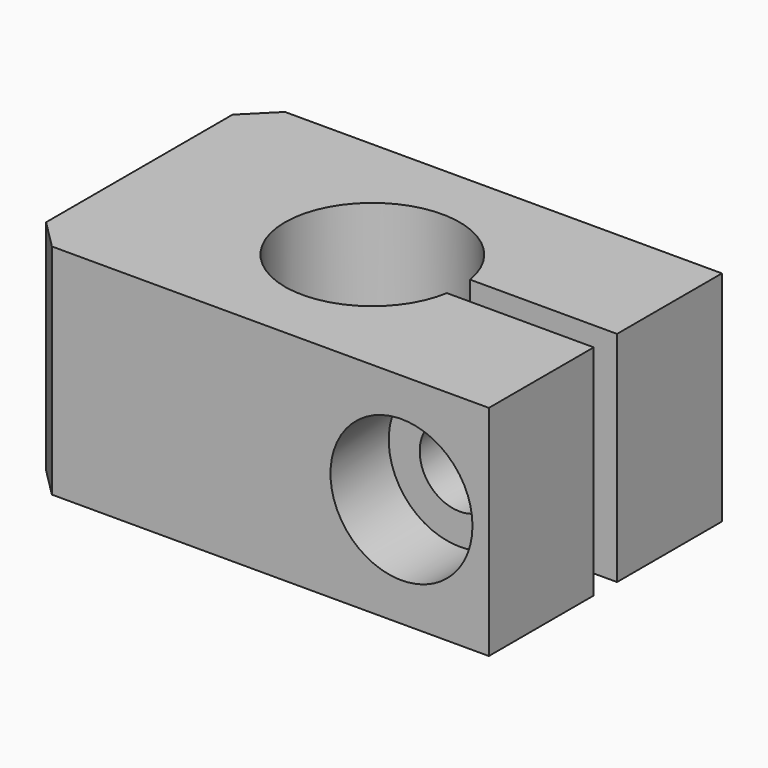
from build123d import *

# Parameters (mm, degrees)
F1_DEPTH = 15
F2_SIZE2 = 2
F2_SIZE  = 2
F3_R     = 2.75
F4_DEPTH = 10
F6_D     = 4.2
F5_R     = 4.875
F5_R_2   = 2.75
F7_DEPTH = 5
F9_D     = 0.5


with BuildPart() as f1:
    # F0 (on Top) → F1 (new body)
    with BuildSketch(Plane.XY):
        with BuildLine():
            ThreePointArc((5.9160797831, -1), (-6, 0), (5.9160797831, 1))
            Line((5.9160797831, 1), (16, 1))
            Line((16, 1), (16, 10))
            Line((16, 10), (-16, 10))
            Line((-16, 10), (-16, -10))
            Line((-16, -10), (16, -10))
            Line((16, -10), (16, -1))
            Line((16, -1), (5.9160797831, -1))
        make_face()
    extrude(amount=F1_DEPTH)

    # F2
    f2_edges = [f1.edges().sort_by_distance(p)[0] for p in [
        (-16, 10, 7.5),
        (-16, -10, 7.5),
    ]]
    chamfer(f2_edges, length=F2_SIZE, length2=F2_SIZE2)

    # F3 (on face) → F4 (cut)
    with BuildSketch(Plane.XZ.offset(10)):
        with Locations((10, 7.5)):
            Circle(F3_R)
    extrude(amount=-F4_DEPTH, mode=Mode.SUBTRACT)

    # F6 (through all)
    with Locations(Plane.XZ.offset(10)):
        with Locations((10, 7.5)):
            Hole(F6_D / 2)

    # F5 (on face) → F7 (cut)
    with BuildSketch(Plane.XZ.offset(10)):
        with Locations((10, 7.5)):
            Circle(F5_R)
        with Locations((10, 7.5)):
            Circle(F5_R_2, mode=Mode.SUBTRACT)
    extrude(amount=-F7_DEPTH, mode=Mode.SUBTRACT)

    # F9 (through all)
    with Locations(Plane(origin=(-16, 0, 0), x_dir=(0, -1, 0), z_dir=(-1, 0, 0))):
        with Locations((0, 7.5)):
            Hole(F9_D / 2)


solid = f1.part
